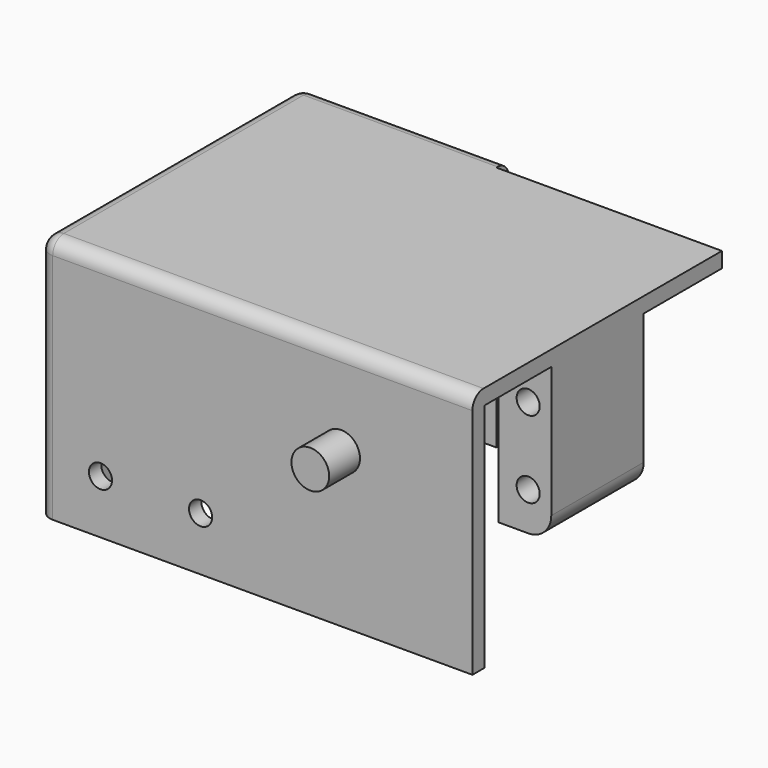
from build123d import *

# Parameters (mm, degrees)
SKETCH_W        = 54.3
SKETCH_H        = 38.5
PAD_DEPTH       = 2
SKETCH003_W     = 6.85
SKETCH003_H     = 15
PAD001_DEPTH    = 20
SKETCH001_W     = 54.3
SKETCH001_H     = 2
PAD003_DEPTH    = 32
SKETCH005_W     = 6.85
SKETCH005_H     = 15
PAD004_DEPTH    = 20
SKETCH002_R     = 2.45
PAD005_DEPTH    = 5
SKETCH007_W     = 25
SKETCH007_H     = 32
PAD006_DEPTH    = 2
SKETCH006_R     = 1.5
POCKET_DEPTH    = 15
SKETCH004_R     = 1.5
POCKET001_DEPTH = 20
SKETCH009_R     = 1.5
SKETCH009_R_2   = 2.95
POCKET002_DEPTH = 2
SKETCH008_R     = 1.5
POCKET003_DEPTH = 3
SKETCH010_W     = 42.5
SKETCH010_H     = 32
PAD007_DEPTH    = 2
FILLET_R        = 1.8
FILLET001_R     = 1.8
FILLET002_R     = 1.8
FILLET003_R     = 3


with BuildPart() as body:
    # Sketch → Pad (new body)
    with BuildSketch(Plane.XY):
        with Locations((27.15, 21.25)):
            Rectangle(SKETCH_W, SKETCH_H)
    extrude(amount=PAD_DEPTH)

    # Sketch003 → Pad001 (join)
    with BuildSketch(Plane.XY.offset(2)):
        with Locations((3.425, 20.3)):
            Rectangle(SKETCH003_W, SKETCH003_H)
    extrude(amount=PAD001_DEPTH)

    # Sketch001 → Pad003 (join)
    with BuildSketch(Plane.XY):
        with Locations((27.15, 1)):
            Rectangle(SKETCH001_W, SKETCH001_H)
    extrude(amount=PAD003_DEPTH)

    # Sketch005 (on Face5 of Pad003) → Pad004 (join)
    with BuildSketch(Plane.XY.offset(2)):
        with Locations((50.875, 20.3)):
            Rectangle(SKETCH005_W, SKETCH005_H)
    extrude(amount=PAD004_DEPTH)

    # Sketch002 (on Face18 of Pad004) → Pad005 (join)
    with BuildSketch(Plane.XZ):
        with Locations((37.25, 12)):
            Circle(SKETCH002_R)
    extrude(amount=PAD005_DEPTH)

    # Sketch007 (on Face1 of Pad005) → Pad006 (join)
    with BuildSketch(Plane(origin=(0, 40.5, 0), x_dir=(-1, 0, 0), z_dir=(0, 1, 0))):
        with Locations((-12.5, 16)):
            Rectangle(SKETCH007_W, SKETCH007_H)
    extrude(amount=PAD006_DEPTH)

    # Sketch006 (on Face14 of Pad006) → Pocket (cut)
    with BuildSketch(Plane.XZ.offset(-12.8)):
        with Locations((51.3, 17)):
            Circle(SKETCH006_R)
        with Locations((51.3, 7)):
            Circle(SKETCH006_R)
    extrude(amount=-POCKET_DEPTH, mode=Mode.SUBTRACT)

    # Sketch004 (on Face16 of Pocket) → Pocket001 (cut)
    with BuildSketch(Plane.XZ.offset(-12.8)):
        with Locations((3, 17)):
            Circle(SKETCH004_R)
        with Locations((3, 7)):
            Circle(SKETCH004_R)
    extrude(amount=-POCKET001_DEPTH, mode=Mode.SUBTRACT)

    # Sketch009 (on Face20 of Pocket001) → Pocket002 (cut)
    with BuildSketch(Plane(origin=(0, 42.5, 0), x_dir=(-1, 0, 0), z_dir=(0, 1, 0))):
        with Locations((-6, 25)):
            Circle(SKETCH009_R)
        with Locations((-19, 25)):
            Circle(SKETCH009_R)
        with Locations((-3, 7)):
            Circle(SKETCH009_R_2)
        with Locations((-3, 17)):
            Circle(SKETCH009_R_2)
    extrude(amount=-POCKET002_DEPTH, mode=Mode.SUBTRACT)

    # Sketch008 → Pocket003 (cut)
    with BuildSketch(Plane.XZ):
        with Locations((19, 25)):
            Circle(SKETCH008_R)
        with Locations((6, 25)):
            Circle(SKETCH008_R)
    extrude(amount=-POCKET003_DEPTH, mode=Mode.SUBTRACT)

    # Sketch010 (on Face8 of Pocket003) → Pad007 (join)
    with BuildSketch(Plane(origin=(0, 0, 0), x_dir=(0, -1, 0), z_dir=(-1, 0, 0))):
        with Locations((-21.25, 16)):
            Rectangle(SKETCH010_W, SKETCH010_H)
    extrude(amount=PAD007_DEPTH)

    # Fillet
    fillet_edges = [body.edges().sort_by_distance(p)[0] for p in [
        (-2, 42.5, 16),
    ]]
    fillet(fillet_edges, radius=FILLET_R)

    # Fillet001
    fillet001_edges = [body.edges().sort_by_distance(p)[0] for p in [
        (-2, 0, 16),
    ]]
    fillet(fillet001_edges, radius=FILLET001_R)

    # Fillet002
    fillet002_edges = [body.edges().sort_by_distance(p)[0] for p in [
        (-2, 21.25, 0),
    ]]
    fillet(fillet002_edges, radius=FILLET002_R)

    # Fillet003
    fillet003_edges = [body.edges().sort_by_distance(p)[0] for p in [
        (54.3, 20.3, 22),
    ]]
    fillet(fillet003_edges, radius=FILLET003_R)


with BuildPart() as part_mirroring:
    # Part__Mirroring: instance of Body
    add(body.part.mirror(Plane(origin=(0, 0, 0), x_dir=(0, 1, 0), z_dir=(0, 0, 1))))


solid = part_mirroring.part
